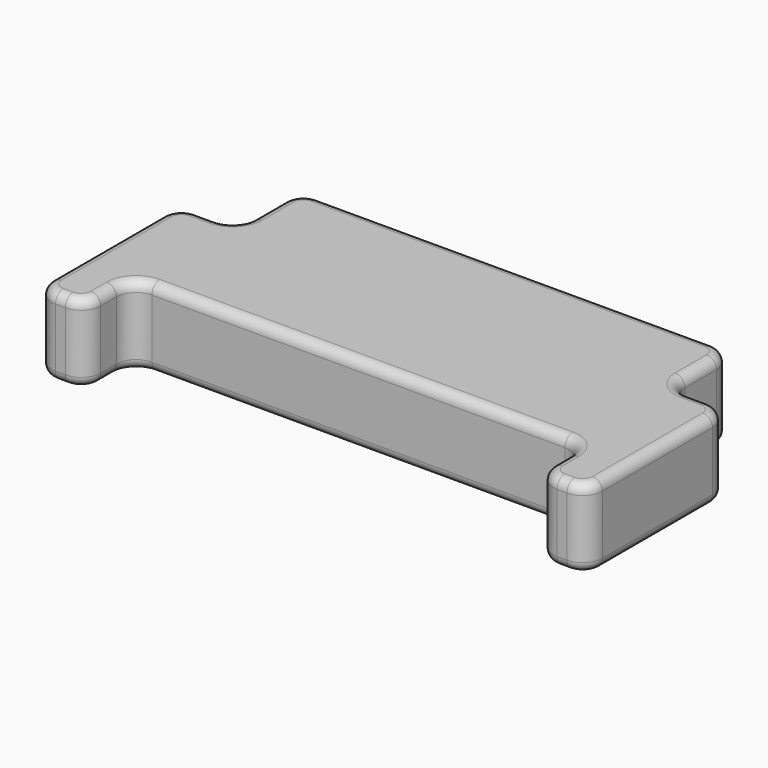
from build123d import *

# Parameters (mm, degrees)
F1_DEPTH = 4
F2_R     = 1
F3_R     = 0.5


with BuildPart() as f1:
    # F0 (on Top) → F1 (new body)
    with BuildSketch(Plane.XY):
        Polygon((14, -4), (11, -4), (11, 0), (-11, 0), (-11, -4), (-14, -4), (-14, -13), (-11.5, -13), (-11.5, -10), (11.5, -10), (11.5, -13), (14, -13), align=None)
    extrude(amount=F1_DEPTH)

    # F2
    f2_edges = [f1.edges().sort_by_distance(p)[0] for p in [
        (-11.5, -13, 2),
        (11.5, -13, 2),
        (-14, -13, 2),
        (-11.5, -10, 2),
        (14, -13, 2),
        (11.5, -10, 2),
        (14, -4, 2),
        (11, -4, 2),
        (11, 0, 2),
        (-11, 0, 2),
        (-11, -4, 2),
        (-14, -4, 2),
    ]]
    fillet(f2_edges, radius=F2_R)

    # F3
    f3_edges = [f1.edges().sort_by_distance(p)[0] for p in [
        (-14, -8.5, 4),
        (-14, -8.5, 0),
    ]]
    fillet(f3_edges, radius=F3_R)


solid = f1.part
